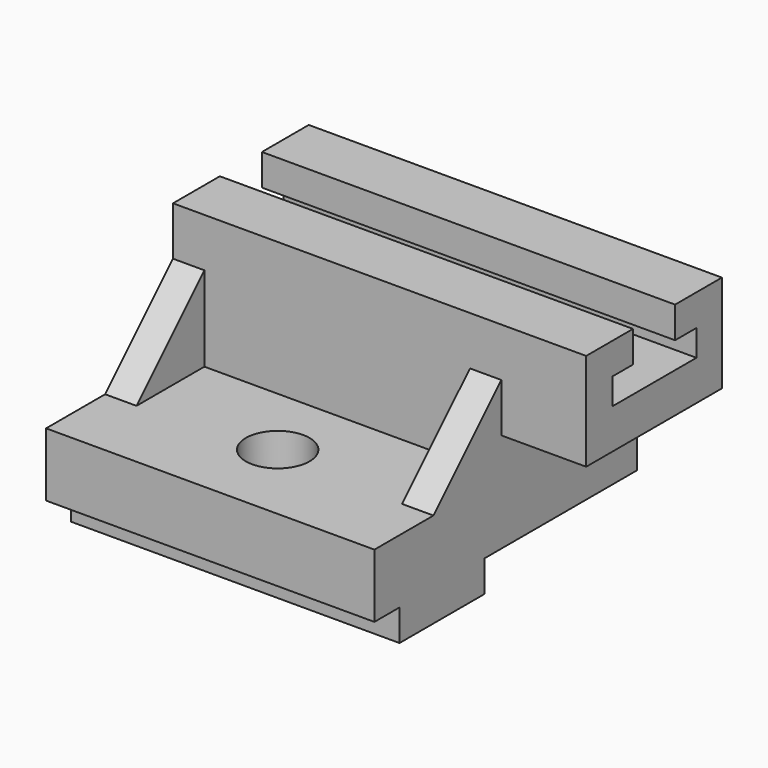
from build123d import *

# Parameters (mm, degrees)
F0_W      = 50.8
F0_H      = 29.21
F1_DEPTH  = 123.698
F3_DEPTH  = 123.698
F4_W      = 98.298
F4_H      = 10.795
F5_DEPTH  = 50.8
F6_W      = 98.298
F6_H      = 28.448
F7_DEPTH  = 98.298
F10_DEPTH = 9.398
F11_DEPTH = 9.398
F12_W     = 9.398
F12_H     = 9.398
F13_DEPTH = 98.298
F14_W     = 57.15
F14_H     = 9.398
F15_DEPTH = 98.298
F16_R     = 9.525
F17_DEPTH = 28.448


with BuildPart() as f1:
    # F0 (on Right) → F1 (new body)
    with BuildSketch(Plane.YZ):
        with Locations((15.4936162289, 40.8715208429)):
            Rectangle(F0_W, F0_H)
    extrude(amount=F1_DEPTH)

    # F2 (on face) → F3 (cut)
    with BuildSketch(Plane.YZ.offset(123.698)):
        Polygon((23.3676162289, 46.0785208429), (23.3676162289, 55.4765208429), (7.6196162289, 55.4765208429), (7.6196162289, 46.0785208429), (0, 46.0785208429), (0, 38.2045208429), (31.3686162289, 38.2045208429), (31.3686162289, 46.0785208429), align=None)
    extrude(amount=-F3_DEPTH, mode=Mode.SUBTRACT)

    # F4 (on face) → F5 (join)
    with BuildSketch(Plane.XZ.offset(9.9063837711)):
        with Locations((49.149, 20.8690208429)):
            Rectangle(F4_W, F4_H)
    extrude(amount=-F5_DEPTH)

    # F6 (on face) → F7 (join)
    with BuildSketch(Plane(origin=(0, 0, 0), x_dir=(0, -1, 0), z_dir=(-1, 0, 0))):
        with Locations((8.2553837711, 1.2475208429)):
            Rectangle(F6_W, F6_H)
    extrude(amount=-F7_DEPTH)

    # F9 (on face) → F10 (join)
    with BuildSketch(Plane.YZ.offset(98.298)):
        Polygon((-35.3063837711, 15.4715208429), (-9.9063837711, 15.4715208429), (-9.9063837711, 26.2665208429), (-9.9063837711, 40.8715208429), align=None)
    extrude(amount=-F10_DEPTH)

    # F8 (on face) → F11 (join)
    with BuildSketch(Plane(origin=(0, 0, 0), x_dir=(0, -1, 0), z_dir=(-1, 0, 0))):
        Polygon((9.9063837711, 40.8715208429), (9.9063837711, 15.4715208429), (35.3063837711, 15.4715208429), align=None)
    extrude(amount=-F11_DEPTH)

    # F12 (on face) → F13 (cut)
    with BuildSketch(Plane.YZ.offset(98.298)):
        with Locations((-52.7053837711, -8.2774791571)):
            Rectangle(F12_W, F12_H)
    extrude(amount=-F13_DEPTH, mode=Mode.SUBTRACT)

    # F14 (on face) → F15 (cut)
    with BuildSketch(Plane.YZ.offset(98.298)):
        with Locations((12.3186162289, -8.2774791571)):
            Rectangle(F14_W, F14_H)
    extrude(amount=-F15_DEPTH, mode=Mode.SUBTRACT)

    # F16 (on face) → F17 (cut)
    with BuildSketch(Plane.XY.offset(15.4715208429)):
        with Locations((49.022, -32.0043837711)):
            Circle(F16_R)
    extrude(amount=-F17_DEPTH, mode=Mode.SUBTRACT)


solid = f1.part
